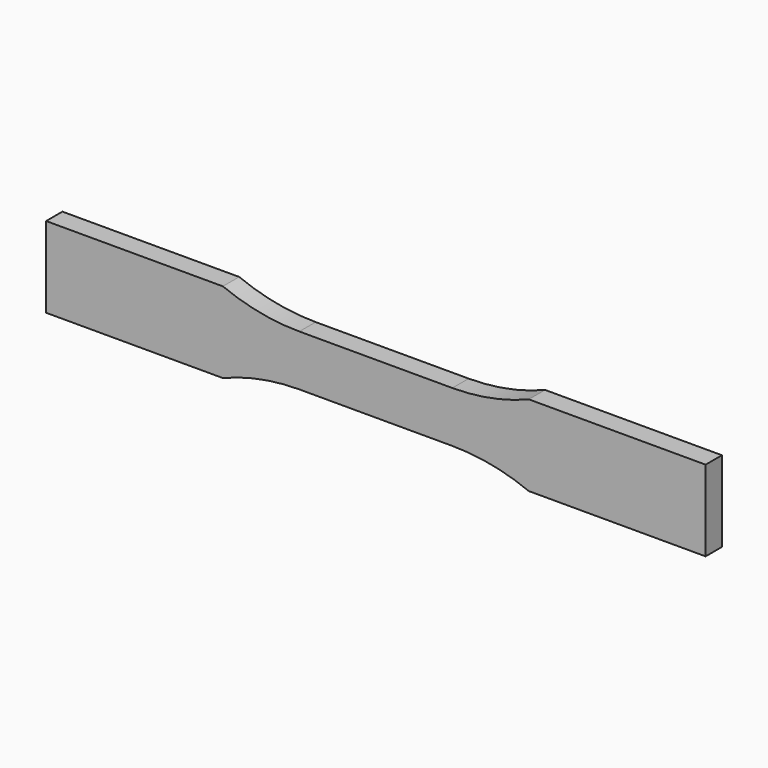
from build123d import *

# Parameters (mm, degrees)
F1_DEPTH = 7.62


with BuildPart() as f1:
    # F0 (on Front) → F1 (new body)
    with BuildSketch(Plane.XZ):
        with BuildLine():
            Line((28.575, 9.525), (0, 9.525))
            Line((0, 9.525), (-28.575, 9.525))
            ThreePointArc((-28.575, 9.525), (-43.130515, 10.928095), (-57.15, 15.085709))
            Line((-57.15, 15.085709), (-123.19, 15.085709))
            Line((-123.19, 15.085709), (-123.19, -15.085709))
            Line((-123.19, -15.085709), (-57.15, -15.085709))
            ThreePointArc((-57.15, -15.085709), (-43.130515, -10.928095), (-28.575, -9.525))
            Line((-28.575, -9.525), (0, -9.525))
            Line((0, -9.525), (28.575, -9.525))
            ThreePointArc((28.575, -9.525), (43.130515, -10.928095), (57.15, -15.085709))
            Line((57.15, -15.085709), (123.19, -15.085709))
            Line((123.19, -15.085709), (123.19, 15.085709))
            Line((123.19, 15.085709), (57.15, 15.085709))
            ThreePointArc((57.15, 15.085709), (43.130515, 10.928095), (28.575, 9.525))
        make_face()
    extrude(amount=F1_DEPTH)


solid = f1.part
